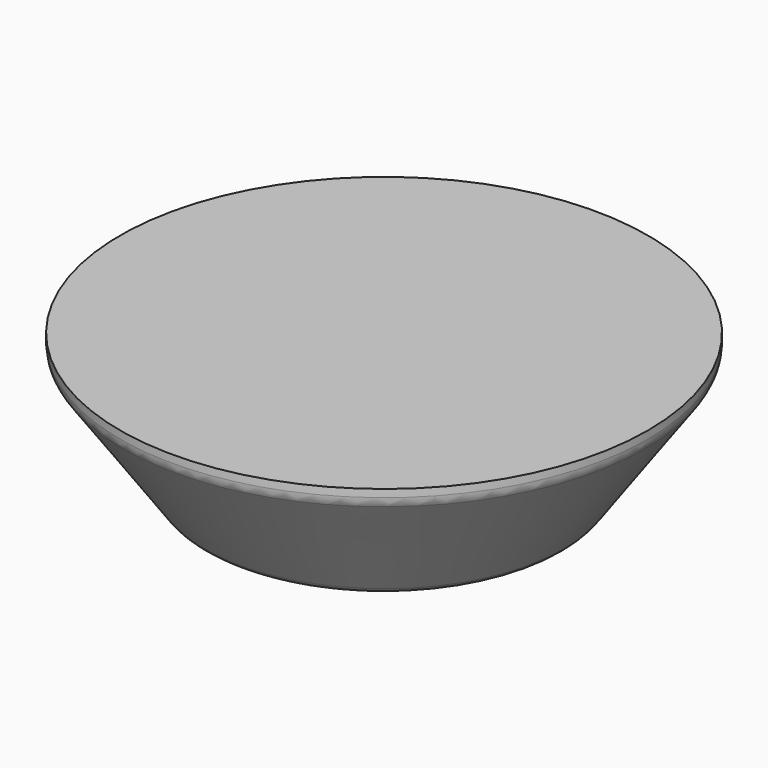
from build123d import *

# Parameters (mm, degrees)
F2_R = 0.5
F3_R = 0.5


with BuildPart() as f1:
    # F0 (on Front) → F1 (revolve)
    with BuildSketch(Plane.XZ):
        Polygon((8, 4.2), (0, 4.2), (0, 0), (5.3, 0), (8, 3.809567), align=None)
    revolve(axis=Axis((0, 0, 2.1), (0, 0, 1)))

    # F2
    f2_edges = [f1.edges().sort_by_distance(p)[0] for p in [
        (-5.3, 0, 0),
    ]]
    fillet(f2_edges, radius=F2_R)

    # F3
    f3_edges = [f1.edges().sort_by_distance(p)[0] for p in [
        (-8, 0, 3.809567),
    ]]
    fillet(f3_edges, radius=F3_R)


solid = f1.part
